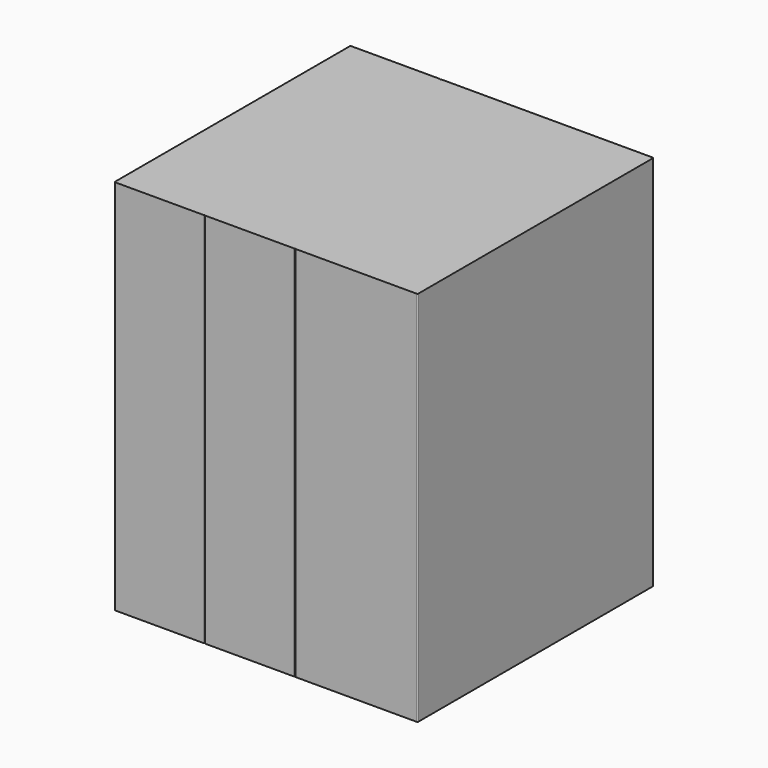
from build123d import *

# Parameters (mm, degrees)
F1_DEPTH = 2336.8


with BuildPart() as f1:
    # F0 (on Top) → F1 (new body)
    with BuildSketch(Plane.XY):
        with BuildLine():
            ThreePointArc((-279.4, 908.05), (-281.259872, 912.540128), (-285.75, 914.4))
            Line((-285.75, 914.4), (-831.85, 914.4))
            ThreePointArc((-831.85, 914.4), (-836.340128, 912.540128), (-838.2, 908.05))
            Line((-838.2, 908.05), (-838.2, -908.05))
            ThreePointArc((-838.2, -908.05), (-836.340128, -912.540128), (-831.85, -914.4))
            Line((-831.85, -914.4), (-285.75, -914.4))
            ThreePointArc((-285.75, -914.4), (-281.259872, -912.540128), (-279.4, -908.05))
            Line((-279.4, -908.05), (-279.4, 908.05))
        make_face()
        with BuildLine():
            ThreePointArc((-273.05, 914.4), (-277.540128, 912.540128), (-279.4, 908.05))
            Line((-279.4, 908.05), (-279.4, -908.05))
            ThreePointArc((-279.4, -908.05), (-277.540128, -912.540128), (-273.05, -914.4))
            Line((-273.05, -914.4), (273.05, -914.4))
            ThreePointArc((273.05, -914.4), (277.540128, -912.540128), (279.4, -908.05))
            Line((279.4, -908.05), (279.4, 908.05))
            ThreePointArc((279.4, 908.05), (277.540128, 912.540128), (273.05, 914.4))
            Line((273.05, 914.4), (-273.05, 914.4))
        make_face()
        with BuildLine():
            ThreePointArc((285.75, 914.4), (281.259872, 912.540128), (279.4, 908.05))
            Line((279.4, 908.05), (279.4, -908.05))
            ThreePointArc((279.4, -908.05), (281.259872, -912.540128), (285.75, -914.4))
            Line((285.75, -914.4), (1035.05, -914.4))
            ThreePointArc((1035.05, -914.4), (1039.540128, -912.540128), (1041.4, -908.05))
            Line((1041.4, -908.05), (1041.4, 908.05))
            ThreePointArc((1041.4, 908.05), (1039.540128, 912.540128), (1035.05, 914.4))
            Line((1035.05, 914.4), (285.75, 914.4))
        make_face()
    extrude(amount=F1_DEPTH)


solid = f1.part
